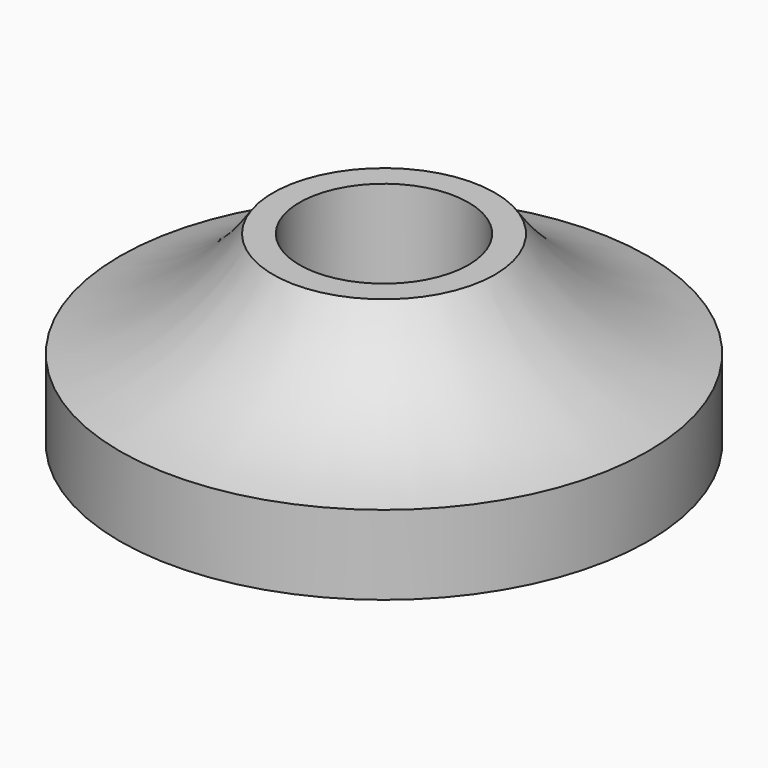
from build123d import *


with BuildPart() as part:
    # Sketch → Revolution (revolve)
    with BuildSketch(Plane.XZ):
        with BuildLine():
            Line((3.2, 0), (10, 0))
            Line((10, 0), (10, 3))
            ThreePointArc((4.2, 7), (6.702111, 4.423061), (10, 3))
            Line((4.2, 7), (3.2, 7))
            Line((3.2, 7), (3.2, 0))
        make_face()
    revolve(axis=Axis((0, 0, 0), (0, 0, 1)))


solid = part.part
